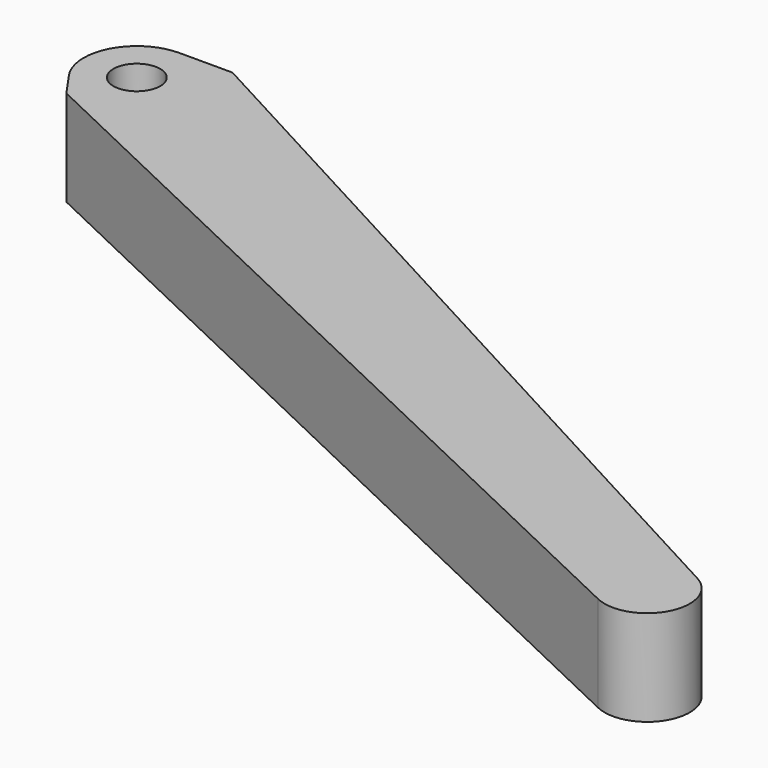
from build123d import *

# Parameters (mm, degrees)
F1_DEPTH = 9.525
F2_R     = 3.4925
F3_DEPTH = 4.7625
F5_DEPTH = 4.7625


with BuildPart() as f1:
    # F0 (on Top) → F1 (new body)
    with BuildSketch(Plane.XY):
        with BuildLine():
            Line((7.9375, 7.9375), (7.9375, 4.5076334995))
            ThreePointArc((7.9375, 4.5076334995), (8.8254506458, 2.3311128059), (9.128125, 0))
            ThreePointArc((9.128125, 0), (4.874681275, -7.7175221725), (-3.9216850064, -8.2427575923))
            Line((-3.9216850064, -8.2427575923), (124.223871162, -69.211007676))
            ThreePointArc((124.223871162, -69.211007676), (132.6511593099, -66.3960142358), (130.01461013, -57.9112053389))
            Line((130.01461013, -57.9112053389), (7.9375, 7.9375))
        make_face()
    extrude(amount=F1_DEPTH)

    # F2 (on face) → F3 (join)
    with BuildSketch(Plane.XY.offset(9.525)):
        with BuildLine():
            ThreePointArc((-6.5048555726, -4.5487097324), (2.3844931476, -7.5708717252), (7.9375, 0))
            ThreePointArc((7.9375, 0), (5.6126600757, 5.6126600757), (0, 7.9375))
            ThreePointArc((0, 7.9375), (-7.0395060107, 3.667323462), (-6.5048555726, -4.5487097324))
        make_face()
        Circle(F2_R, mode=Mode.SUBTRACT)
        with BuildLine():
            ThreePointArc((0, 7.9375), (5.6126600757, 5.6126600757), (7.9375, 0))
            ThreePointArc((7.9375, 0), (2.3844931476, -7.5708717252), (-6.5048555726, -4.5487097324))
            Line((-6.5048555726, -4.5487097324), (-3.9216850064, -8.2427575923))
            ThreePointArc((-3.9216850064, -8.2427575923), (6.6839218101, -6.2167399215), (7.9375, 4.5076334995))
            Line((7.9375, 4.5076334995), (7.9375, 7.9375))
            Line((7.9375, 7.9375), (0, 7.9375))
        make_face()
    extrude(amount=F3_DEPTH)

    # F4 (on face) → F5 (join)
    with BuildSketch(Plane.XY.offset(9.525)):
        with BuildLine():
            Line((-3.9216850064, -8.2427575923), (124.223871162, -69.211007676))
            ThreePointArc((124.223871162, -69.211007676), (132.6511593099, -66.3960142358), (130.01461013, -57.9112053389))
            Line((130.01461013, -57.9112053389), (7.9375, 7.9375))
            Line((7.9375, 7.9375), (7.9375, 4.5076334995))
            ThreePointArc((7.9375, 4.5076334995), (6.6839218101, -6.2167399215), (-3.9216850064, -8.2427575923))
        make_face()
    extrude(amount=F5_DEPTH)


solid = f1.part
